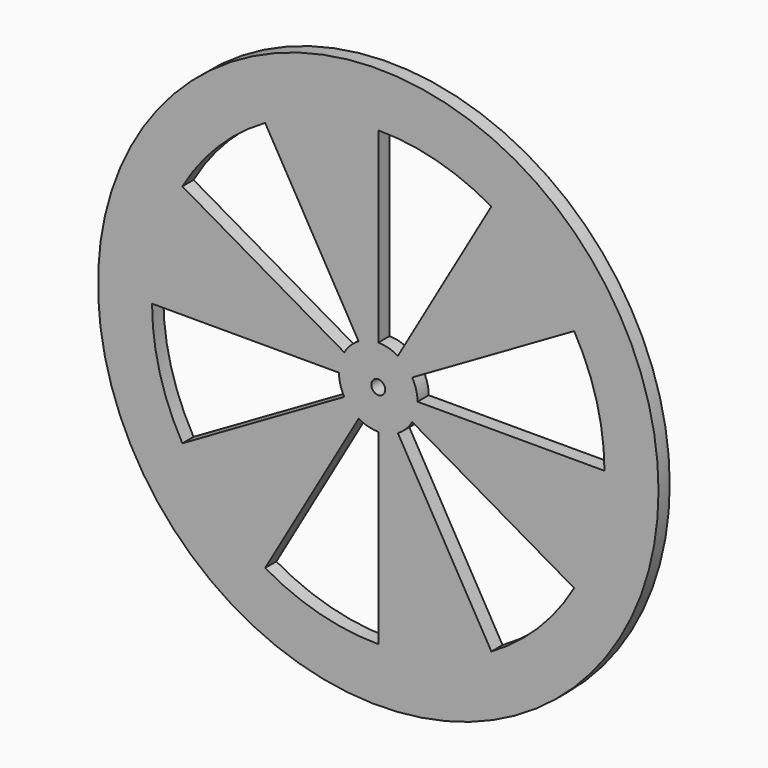
from build123d import *

# Parameters (mm, degrees)
F0_R     = 63.5
F0_R_2   = 1.5875
F1_DEPTH = 3.175
F2_R     = 1.5875
F3_DEPTH = 3.175


with BuildPart() as f1:
    # F0 (on Front) → F1 (new body)
    with BuildSketch(Plane.XZ):
        Circle(F0_R)
        with BuildLine():
            ThreePointArc((44.386194, 25.626381), (49.506367, 13.265191), (51.252762, 0))
            ThreePointArc((51.252762, 0), (49.506367, -13.265191), (44.386194, -25.626381))
            ThreePointArc((44.386194, -25.626381), (36.241176, -36.241176), (25.626381, -44.386194))
            ThreePointArc((25.626381, -44.386194), (13.265191, -49.506367), (0, -51.252762))
            ThreePointArc((0, -51.252762), (-13.265191, -49.506367), (-25.626381, -44.386194))
            ThreePointArc((-25.626381, -44.386194), (-36.241176, -36.241176), (-44.386194, -25.626381))
            ThreePointArc((-44.386194, -25.626381), (-49.506367, -13.265191), (-51.252762, 0))
            ThreePointArc((-51.252762, 0), (-49.506367, 13.265191), (-44.386194, 25.626381))
            ThreePointArc((-44.386194, 25.626381), (-36.241176, 36.241176), (-25.626381, 44.386194))
            ThreePointArc((-25.626381, 44.386194), (-13.265191, 49.506367), (0, 51.252762))
            ThreePointArc((0, 51.252762), (13.265191, 49.506367), (25.626381, 44.386194))
            ThreePointArc((25.626381, 44.386194), (36.241176, 36.241176), (44.386194, 25.626381))
        make_face(mode=Mode.SUBTRACT)
        with BuildLine():
            Line((-7.698966, 4.445), (-44.386194, 25.626381))
            ThreePointArc((-44.386194, 25.626381), (-49.506367, 13.265191), (-51.252762, 0))
            Line((-51.252762, 0), (-8.89, 0))
            ThreePointArc((-8.89, 0), (-8.587081, 2.300901), (-7.698966, 4.445))
        make_face()
        with BuildLine():
            Line((0, 8.89), (0, 51.252762))
            ThreePointArc((0, 51.252762), (-13.265191, 49.506367), (-25.626381, 44.386194))
            Line((-25.626381, 44.386194), (-4.445, 7.698966))
            ThreePointArc((-4.445, 7.698966), (-2.300901, 8.587081), (0, 8.89))
        make_face()
        with BuildLine():
            Line((7.698966, 4.445), (44.386194, 25.626381))
            ThreePointArc((44.386194, 25.626381), (36.241176, 36.241176), (25.626381, 44.386194))
            Line((25.626381, 44.386194), (4.445, 7.698966))
            ThreePointArc((4.445, 7.698966), (6.286179, 6.286179), (7.698966, 4.445))
        make_face()
        with BuildLine():
            ThreePointArc((44.386194, -25.626381), (49.506367, -13.265191), (51.252762, 0))
            Line((51.252762, 0), (8.89, 0))
            ThreePointArc((8.89, 0), (8.587081, -2.300901), (7.698966, -4.445))
            Line((7.698966, -4.445), (44.386194, -25.626381))
        make_face()
        with BuildLine():
            ThreePointArc((0, -51.252762), (13.265191, -49.506367), (25.626381, -44.386194))
            Line((25.626381, -44.386194), (4.445, -7.698966))
            ThreePointArc((4.445, -7.698966), (2.300901, -8.587081), (0, -8.89))
            Line((0, -8.89), (0, -51.252762))
        make_face()
        with BuildLine():
            ThreePointArc((-44.386194, -25.626381), (-36.241176, -36.241176), (-25.626381, -44.386194))
            Line((-25.626381, -44.386194), (-4.445, -7.698966))
            ThreePointArc((-4.445, -7.698966), (-6.286179, -6.286179), (-7.698966, -4.445))
            Line((-7.698966, -4.445), (-44.386194, -25.626381))
        make_face()
        with BuildLine():
            ThreePointArc((7.698966, -4.445), (8.587081, -2.300901), (8.89, 0))
            ThreePointArc((8.89, 0), (8.587081, 2.300901), (7.698966, 4.445))
            ThreePointArc((7.698966, 4.445), (6.286179, 6.286179), (4.445, 7.698966))
            ThreePointArc((4.445, 7.698966), (2.300901, 8.587081), (0, 8.89))
            ThreePointArc((0, 8.89), (-2.300901, 8.587081), (-4.445, 7.698966))
            ThreePointArc((-4.445, 7.698966), (-6.286179, 6.286179), (-7.698966, 4.445))
            ThreePointArc((-7.698966, 4.445), (-8.587081, 2.300901), (-8.89, 0))
            ThreePointArc((-8.89, 0), (-8.587081, -2.300901), (-7.698966, -4.445))
            ThreePointArc((-7.698966, -4.445), (-6.286179, -6.286179), (-4.445, -7.698966))
            ThreePointArc((-4.445, -7.698966), (-2.300901, -8.587081), (0, -8.89))
            ThreePointArc((0, -8.89), (2.300901, -8.587081), (4.445, -7.698966))
            ThreePointArc((4.445, -7.698966), (6.286179, -6.286179), (7.698966, -4.445))
        make_face()
        Circle(F0_R_2, mode=Mode.SUBTRACT)
    extrude(amount=F1_DEPTH)

    # F2 (on face) → F3 (cut)
    with BuildSketch(Plane.XZ.offset(3.175)):
        Circle(F2_R)
    extrude(amount=-F3_DEPTH, mode=Mode.SUBTRACT)


solid = f1.part
